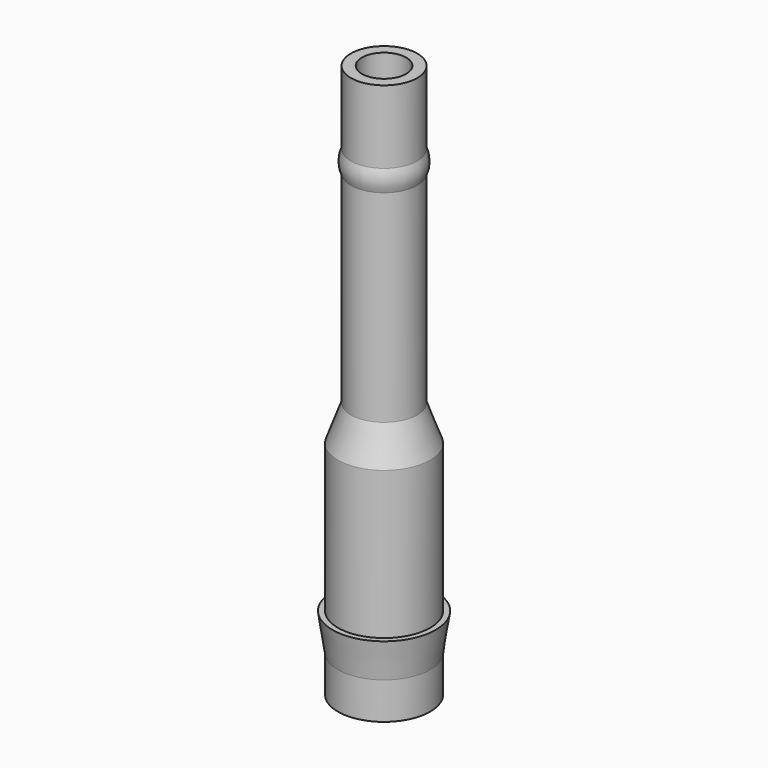
from build123d import *


with BuildPart() as f1:
    # F0 (on Front) → F1 (revolve)
    with BuildSketch(Plane.XZ):
        Polygon((4.75, 0), (6.25, 0), (6.25, 5), (7, 10), (6.25, 10), (6.25, 30), (4.5, 34.808085), (4.5, 75), (3, 75), (3, 34.543595), (4.75, 29.73551), align=None)
    revolve(axis=Axis((0, 0, 35.781112), (0, 0, 1)))

    # F2 (on Right) → F3 (revolve)
    with BuildSketch(Plane.YZ):
        with BuildLine():
            Line((4.4, 65.285346), (4.4, 61.985346))
            ThreePointArc((4.4, 61.985346), (4.826595, 63.635346), (4.4, 65.285346))
        make_face()
    revolve(axis=Axis((0, 0, 60.848506), (0, 0, 1)))


solid = f1.part
